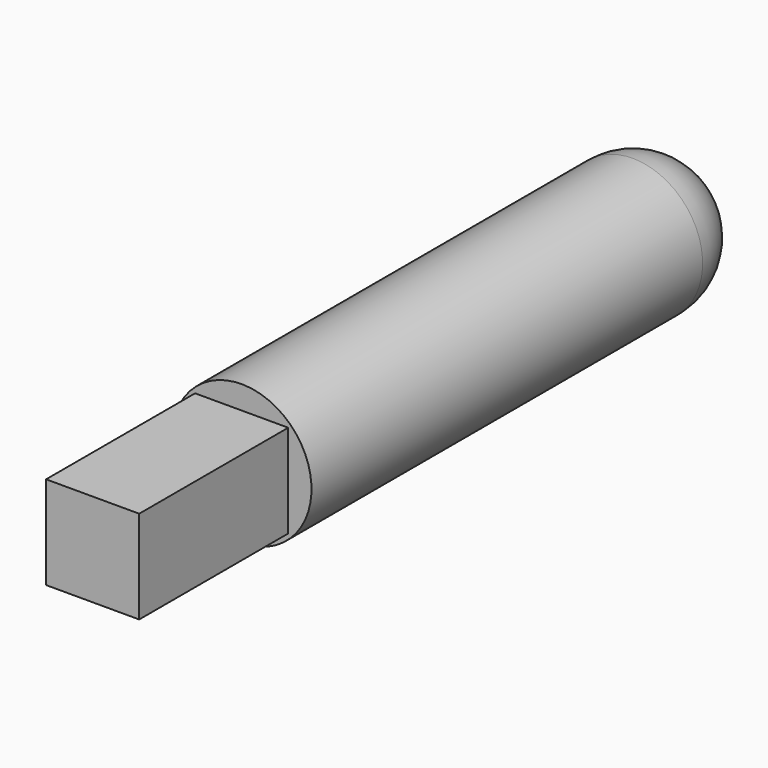
from build123d import *

# Parameters (mm, degrees)
F0_W     = 50.8
F0_H     = 50.8
F1_DEPTH = 101.6
F2_R     = 38.1
F3_DEPTH = 304.8
F4_R     = 38.1


with BuildPart() as f1:
    # F0 (on Front) → F1 (new body)
    with BuildSketch(Plane.XZ):
        Rectangle(F0_W, F0_H)
    extrude(amount=F1_DEPTH)

    # F2 (on face) → F3 (join)
    with BuildSketch(Plane(origin=(0, 0, 0), x_dir=(-1, 0, 0), z_dir=(0, 1, 0))):
        Circle(F2_R)
    extrude(amount=F3_DEPTH)

    # F4
    f4_edges = [f1.edges().sort_by_distance(p)[0] for p in [
        (38.1, 304.8, 0),
    ]]
    fillet(f4_edges, radius=F4_R)


solid = f1.part
